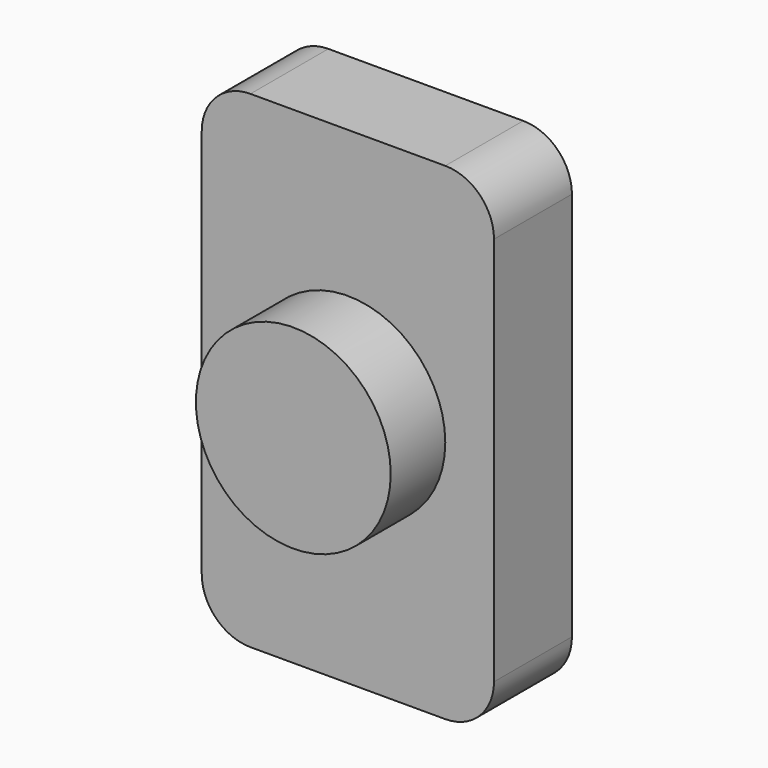
from build123d import *

# Parameters (mm, degrees)
F0_W     = 30
F0_H     = 50
F1_DEPTH = 10
F2_R     = 10
F3_DEPTH = 7
F4_R     = 5
F5_R     = 5
F6_R     = 5
F7_R     = 5


with BuildPart() as f1:
    # F0 (on Front) → F1 (new body)
    with BuildSketch(Plane.XZ):
        Rectangle(F0_W, F0_H)
    extrude(amount=-F1_DEPTH)

    # F2 (on face) → F3 (join)
    with BuildSketch(Plane.XZ):
        Circle(F2_R)
    extrude(amount=F3_DEPTH)

    # F4
    f4_edges = [f1.edges().sort_by_distance(p)[0] for p in [
        (15, 5, 25),
    ]]
    fillet(f4_edges, radius=F4_R)

    # F5
    f5_edges = [f1.edges().sort_by_distance(p)[0] for p in [
        (-15, 5, 25),
    ]]
    fillet(f5_edges, radius=F5_R)

    # F6
    f6_edges = [f1.edges().sort_by_distance(p)[0] for p in [
        (15, 5, -25),
    ]]
    fillet(f6_edges, radius=F6_R)

    # F7
    f7_edges = [f1.edges().sort_by_distance(p)[0] for p in [
        (-15, 5, -25),
    ]]
    fillet(f7_edges, radius=F7_R)


solid = f1.part
